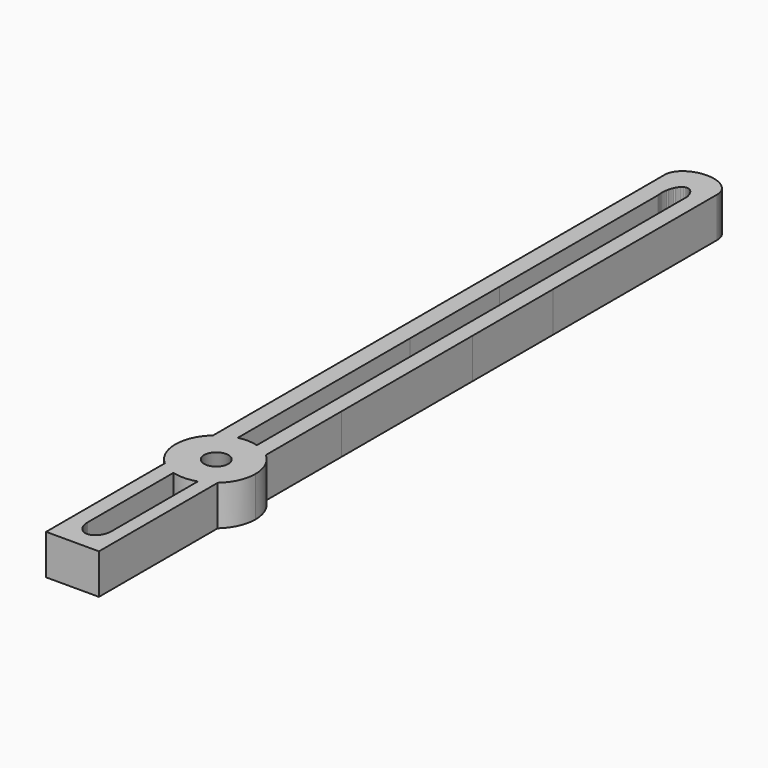
from build123d import *

# Parameters (mm, degrees)
F1_DEPTH = 3


with BuildPart() as f1:
    # F0 (on Top) → F1 (new body)
    with BuildSketch(Plane.XY):
        with BuildLine():
            Line((-1.980627, 28.310504), (-1.979445, 12.812142))
            Line((-1.979445, 12.812142), (-1.980026, 5.260689))
            Line((-1.980026, 5.260689), (-1.980225, -7.005053))
            Line((-1.980225, -7.005053), (-1.979909, -14.056294))
            ThreePointArc((-1.979909, -14.056294), (-1.363477, -13.638435), (-0.663111, -13.385288))
            Line((-0.663111, -13.385288), (-0.665843, -13.322534))
            Line((-0.665843, -13.322534), (-0.66649, 2.730131))
            Line((-0.66649, 2.730131), (-0.666085, 11.093984))
            Line((-0.666085, 11.093984), (-0.666229, 25.903609))
            Line((-0.666229, 25.903609), (-0.678468, 25.996836))
            Line((-0.678468, 25.996836), (-0.687339, 26.092324))
            Line((-0.687339, 26.092324), (-0.69274, 26.189851))
            Line((-0.69274, 26.189851), (-0.694564, 26.289197))
            Line((-0.694564, 26.289197), (-0.690575, 26.435973))
            Line((-0.690575, 26.435973), (-0.678866, 26.57851))
            Line((-0.678866, 26.57851), (-0.659828, 26.716085))
            Line((-0.659828, 26.716085), (-0.633847, 26.847977))
            Line((-0.633847, 26.847977), (-0.601312, 26.973464))
            Line((-0.601312, 26.973464), (-0.562612, 27.091825))
            Line((-0.562612, 27.091825), (-0.518134, 27.202339))
            Line((-0.518134, 27.202339), (-0.468267, 27.304283))
            Line((-0.468267, 27.304283), (-0.4134, 27.396936))
            Line((-0.4134, 27.396936), (-0.353921, 27.479576))
            Line((-0.353921, 27.479576), (-0.290218, 27.551483))
            Line((-0.290218, 27.551483), (-0.22268, 27.611933))
            Line((-0.22268, 27.611933), (-0.151694, 27.660206))
            Line((-0.151694, 27.660206), (-0.07765, 27.695581))
            Line((-0.07765, 27.695581), (-0.039602, 27.708205))
            Line((-0.039602, 27.708205), (-0.000936, 27.717334))
            Line((-0.000936, 27.717334), (0.038302, 27.722878))
            Line((0.038302, 27.722878), (0.078061, 27.724746))
            Line((0.078061, 27.724746), (0.13738, 27.720578))
            Line((0.13738, 27.720578), (0.195474, 27.708275))
            Line((0.195474, 27.708275), (0.252183, 27.688139))
            Line((0.252183, 27.688139), (0.30734, 27.660474))
            Line((0.30734, 27.660474), (0.360783, 27.625579))
            Line((0.360783, 27.625579), (0.41235, 27.583758))
            Line((0.41235, 27.583758), (0.461876, 27.535313))
            Line((0.461876, 27.535313), (0.509199, 27.480545))
            Line((0.509199, 27.480545), (0.554154, 27.419756))
            Line((0.554154, 27.419756), (0.596581, 27.35325))
            Line((0.596581, 27.35325), (0.636313, 27.281326))
            Line((0.636313, 27.281326), (0.673188, 27.204289))
            Line((0.673188, 27.204289), (0.707043, 27.122439))
            Line((0.707043, 27.122439), (0.737715, 27.03608))
            Line((0.737715, 27.03608), (0.765041, 26.945512))
            Line((0.765041, 26.945512), (0.788856, 26.851039))
            Line((0.788856, 26.851039), (0.788507, 11.093984))
            Line((0.788507, 11.093984), (0.788773, 2.740624))
            Line((0.788773, 2.740624), (0.789484, -13.260259))
            Line((0.789484, -13.260259), (0.78927, -13.289638))
            Line((0.78927, -13.289638), (0.785687, -13.416494))
            ThreePointArc((0.785687, -13.416494), (1.41792, -13.668387), (1.97711, -14.056299))
            Line((1.97711, -14.056299), (1.977443, -7.004815))
            Line((1.977443, -7.004815), (1.977243, 5.286924))
            Line((1.977243, 5.286924), (1.976621, 12.812142))
            Line((1.976621, 12.812142), (1.97763, 28.11913))
            Line((1.97763, 28.11913), (1.98036, 28.181932))
            Line((1.98036, 28.181932), (1.977778, 28.258802))
            Line((1.977778, 28.258802), (1.970115, 28.334663))
            Line((1.970115, 28.334663), (1.957495, 28.409421))
            Line((1.957495, 28.409421), (1.940044, 28.482981))
            Line((1.940044, 28.482981), (1.917886, 28.555252))
            Line((1.917886, 28.555252), (1.891146, 28.626137))
            Line((1.891146, 28.626137), (1.859947, 28.695545))
            Line((1.859947, 28.695545), (1.824416, 28.76338))
            Line((1.824416, 28.76338), (1.784676, 28.829549))
            Line((1.784676, 28.829549), (1.740854, 28.893958))
            Line((1.740854, 28.893958), (1.693072, 28.956513))
            Line((1.693072, 28.956513), (1.641456, 29.017121))
            Line((1.641456, 29.017121), (1.58613, 29.075686))
            Line((1.58613, 29.075686), (1.527219, 29.132116))
            Line((1.527219, 29.132116), (1.464849, 29.186318))
            Line((1.464849, 29.186318), (1.399143, 29.238197))
            Line((1.399143, 29.238197), (1.330226, 29.287657))
            Line((1.330226, 29.287657), (1.258223, 29.334608))
            Line((1.258223, 29.334608), (1.183258, 29.378954))
            Line((1.183258, 29.378954), (1.105457, 29.420601))
            Line((1.105457, 29.420601), (1.024943, 29.459455))
            Line((1.024943, 29.459455), (0.941843, 29.495424))
            Line((0.941843, 29.495424), (0.856279, 29.528412))
            Line((0.856279, 29.528412), (0.768378, 29.558326))
            Line((0.768378, 29.558326), (0.678263, 29.585072))
            Line((0.678263, 29.585072), (0.58606, 29.608558))
            Line((0.58606, 29.608558), (0.491891, 29.628687))
            Line((0.491891, 29.628687), (0.395885, 29.645367))
            Line((0.395885, 29.645367), (0.298164, 29.658503))
            Line((0.298164, 29.658503), (0.198853, 29.668003))
            Line((0.198853, 29.668003), (0.098076, 29.673772))
            Line((0.098076, 29.673772), (-0.004041, 29.675715))
            Line((-0.004041, 29.675715), (-0.101061, 29.673961))
            Line((-0.101061, 29.673961), (-0.196878, 29.668754))
            Line((-0.196878, 29.668754), (-0.291384, 29.660174))
            Line((-0.291384, 29.660174), (-0.384472, 29.648304))
            Line((-0.384472, 29.648304), (-0.476034, 29.633223))
            Line((-0.476034, 29.633223), (-0.565965, 29.615016))
            Line((-0.565965, 29.615016), (-0.740501, 29.569542))
            Line((-0.740501, 29.569542), (-0.907225, 29.512535))
            Line((-0.907225, 29.512535), (-1.065281, 29.444645))
            Line((-1.065281, 29.444645), (-1.213809, 29.366523))
            Line((-1.213809, 29.366523), (-1.284235, 29.323829))
            Line((-1.284235, 29.323829), (-1.351958, 29.278821))
            Line((-1.351958, 29.278821), (-1.41687, 29.231581))
            Line((-1.41687, 29.231581), (-1.478867, 29.182191))
            Line((-1.478867, 29.182191), (-1.53784, 29.130731))
            Line((-1.53784, 29.130731), (-1.593682, 29.077283))
            Line((-1.593682, 29.077283), (-1.646286, 29.02193))
            Line((-1.646286, 29.02193), (-1.695545, 28.964751))
            Line((-1.695545, 28.964751), (-1.741353, 28.905828))
            Line((-1.741353, 28.905828), (-1.783602, 28.845244))
            Line((-1.783602, 28.845244), (-1.822185, 28.783079))
            Line((-1.822185, 28.783079), (-1.856995, 28.719414))
            Line((-1.856995, 28.719414), (-1.887924, 28.654332))
            Line((-1.887924, 28.654332), (-1.914867, 28.587914))
            Line((-1.914867, 28.587914), (-1.937716, 28.52024))
            Line((-1.937716, 28.52024), (-1.956364, 28.451393))
            Line((-1.956364, 28.451393), (-1.970703, 28.381454))
            Line((-1.970703, 28.381454), (-1.980627, 28.310504))
        make_face()
        with BuildLine():
            ThreePointArc((2.998598, -16.311402), (2.73132, -15.073568), (1.97711, -14.056299))
            Line((1.97711, -14.056299), (1.977003, -16.311402))
            Line((1.977003, -16.311402), (1.976972, -18.160969))
            Line((1.976972, -18.160969), (1.976961, -18.566636))
            ThreePointArc((1.976961, -18.566636), (2.731279, -17.549326), (2.998598, -16.311402))
        make_face()
        with BuildLine():
            ThreePointArc((-0.663111, -13.385288), (-1.363477, -13.638435), (-1.979909, -14.056294))
            Line((-1.979909, -14.056294), (-1.979807, -16.311402))
            Line((-1.979807, -16.311402), (-1.979778, -18.160832))
            Line((-1.979778, -18.160832), (-1.979754, -18.566645))
            ThreePointArc((-1.979754, -18.566645), (-1.440444, -18.943731), (-0.831892, -19.194158))
            Line((-0.831892, -19.194158), (-0.831876, -19.007547))
            Line((-0.831876, -19.007547), (-0.827241, -18.887879))
            Line((-0.827241, -18.887879), (-0.813638, -18.771668))
            Line((-0.813638, -18.771668), (-0.791516, -18.659502))
            Line((-0.791516, -18.659502), (-0.761329, -18.551969))
            Line((-0.761329, -18.551969), (-0.723527, -18.449658))
            Line((-0.723527, -18.449658), (-0.67856, -18.353157))
            Line((-0.67856, -18.353157), (-0.626881, -18.263055))
            Line((-0.626881, -18.263055), (-0.568941, -18.179939))
            Line((-0.568941, -18.179939), (-0.50519, -18.104398))
            Line((-0.50519, -18.104398), (-0.43608, -18.037021))
            Line((-0.43608, -18.037021), (-0.362064, -17.978395))
            Line((-0.362064, -17.978395), (-0.283591, -17.929109))
            Line((-0.283591, -17.929109), (-0.201112, -17.889752))
            Line((-0.201112, -17.889752), (-0.115079, -17.860911))
            Line((-0.115079, -17.860911), (-0.070871, -17.850618))
            Line((-0.070871, -17.850618), (-0.025944, -17.843174))
            Line((-0.025944, -17.843174), (0.019646, -17.838655))
            Line((0.019646, -17.838655), (0.065842, -17.837132))
            Line((0.065842, -17.837132), (0.112039, -17.838655))
            Line((0.112039, -17.838655), (0.157629, -17.843174))
            Line((0.157629, -17.843174), (0.202556, -17.850618))
            Line((0.202556, -17.850618), (0.246764, -17.860911))
            Line((0.246764, -17.860911), (0.332796, -17.889752))
            Line((0.332796, -17.889752), (0.415275, -17.929109))
            Line((0.415275, -17.929109), (0.493748, -17.978395))
            Line((0.493748, -17.978395), (0.567765, -18.037021))
            Line((0.567765, -18.037021), (0.636875, -18.104398))
            Line((0.636875, -18.104398), (0.700625, -18.179939))
            Line((0.700625, -18.179939), (0.758565, -18.263055))
            Line((0.758565, -18.263055), (0.810244, -18.353157))
            Line((0.810244, -18.353157), (0.85521, -18.449658))
            Line((0.85521, -18.449658), (0.893013, -18.551969))
            Line((0.893013, -18.551969), (0.923201, -18.659502))
            Line((0.923201, -18.659502), (0.945322, -18.771668))
            Line((0.945322, -18.771668), (0.958926, -18.887879))
            Line((0.958926, -18.887879), (0.96356, -19.007547))
            Line((0.96356, -19.007547), (0.963548, -19.151978))
            ThreePointArc((0.963548, -19.151978), (1.499074, -18.909203), (1.976961, -18.566636))
            Line((1.976961, -18.566636), (1.976972, -18.160969))
            Line((1.976972, -18.160969), (1.977003, -16.311402))
            Line((1.977003, -16.311402), (1.97711, -14.056299))
            ThreePointArc((1.97711, -14.056299), (1.41792, -13.668387), (0.785687, -13.416494))
            Line((0.785687, -13.416494), (0.785158, -13.435205))
            Line((0.785158, -13.435205), (0.773837, -13.576492))
            Line((0.773837, -13.576492), (0.755668, -13.712789))
            Line((0.755668, -13.712789), (0.731018, -13.843382))
            Line((0.731018, -13.843382), (0.700252, -13.96756))
            Line((0.700252, -13.96756), (0.663735, -14.084611))
            Line((0.663735, -14.084611), (0.621833, -14.193822))
            Line((0.621833, -14.193822), (0.57491, -14.294481))
            Line((0.57491, -14.294481), (0.523332, -14.385878))
            Line((0.523332, -14.385878), (0.467465, -14.467297))
            Line((0.467465, -14.467297), (0.407673, -14.538028))
            Line((0.407673, -14.538028), (0.344322, -14.597359))
            Line((0.344322, -14.597359), (0.277777, -14.644577))
            Line((0.277777, -14.644577), (0.208403, -14.678971))
            Line((0.208403, -14.678971), (0.136565, -14.699827))
            Line((0.136565, -14.699827), (0.062629, -14.706435))
            Line((0.062629, -14.706435), (-0.010263, -14.699339))
            Line((-0.010263, -14.699339), (-0.081103, -14.678502))
            Line((-0.081103, -14.678502), (-0.149551, -14.6446))
            Line((-0.149551, -14.6446), (-0.215262, -14.598307))
            Line((-0.215262, -14.598307), (-0.277895, -14.540302))
            Line((-0.277895, -14.540302), (-0.337108, -14.47126))
            Line((-0.337108, -14.47126), (-0.392557, -14.391857))
            Line((-0.392557, -14.391857), (-0.443904, -14.30277))
            Line((-0.443904, -14.30277), (-0.490802, -14.204672))
            Line((-0.490802, -14.204672), (-0.532912, -14.098243))
            Line((-0.532912, -14.098243), (-0.569891, -13.984157))
            Line((-0.569891, -13.984157), (-0.601396, -13.863089))
            Line((-0.601396, -13.863089), (-0.627086, -13.735717))
            Line((-0.627086, -13.735717), (-0.646619, -13.602717))
            Line((-0.646619, -13.602717), (-0.659652, -13.464763))
            Line((-0.659652, -13.464763), (-0.663111, -13.385288))
        make_face()
        Polygon((0.967563, -16.254669), (0.969343, -16.311402), (0.96695, -16.377163), (0.961052, -16.433616), (0.951626, -16.489589), (0.938711, -16.54486), (0.922356, -16.599213), (0.902625, -16.652433), (0.879596, -16.704313), (0.853362, -16.754646), (0.824022, -16.803236), (0.791694, -16.849891), (0.756506, -16.894426), (0.718593, -16.936669), (0.678108, -16.976453), (0.635209, -17.013619), (0.590063, -17.048023), (0.542851, -17.079529), (0.493755, -17.108014), (0.442969, -17.133364), (0.390695, -17.155481), (0.337138, -17.174277), (0.282507, -17.18968), (0.227018, -17.201626), (0.170889, -17.21007), (0.114342, -17.21498), (0.057598, -17.216334), (0.00088, -17.214129), (-0.055587, -17.208372), (-0.111583, -17.199087), (-0.166887, -17.186309), (-0.221281, -17.170089), (-0.27455, -17.150491), (-0.326486, -17.127593), (-0.376885, -17.101483), (-0.425549, -17.072266), (-0.472283, -17.040055), (-0.516908, -17.004978), (-0.559245, -16.967172), (-0.599129, -16.926786), (-0.636403, -16.88398), (-0.67092, -16.838921), (-0.702544, -16.791786), (-0.731151, -16.742762), (-0.756628, -16.692041), (-0.778876, -16.639822), (-0.797807, -16.586312), (-0.813345, -16.531719), (-0.82543, -16.476261), (-0.834015, -16.420153), (-0.839065, -16.363618), (-0.840562, -16.306877), (-0.838498, -16.250154), (-0.832883, -16.193672), (-0.823737, -16.137653), (-0.811098, -16.082318), (-0.795014, -16.027884), (-0.77555, -15.974566), (-0.752781, -15.922572), (-0.726798, -15.872108), (-0.697702, -15.823372), (-0.665608, -15.776556), (-0.630642, -15.731845), (-0.592942, -15.689413), (-0.552656, -15.649429), (-0.509943, -15.612048), (-0.46497, -15.577418), (-0.417915, -15.545676), (-0.368962, -15.516946), (-0.318306, -15.491342), (-0.266142, -15.468965), (-0.212679, -15.449901), (-0.158126, -15.434226), (-0.102698, -15.422002), (-0.046612, -15.413277), (0.009911, -15.408085), (0.066647, -15.406447), (0.123375, -15.408369), (0.179871, -15.413843), (0.235912, -15.422848), (0.291279, -15.435349), (0.345753, -15.451296), (0.39912, -15.470628), (0.45117, -15.493266), (0.501699, -15.519124), (0.550507, -15.548097), (0.597403, -15.580074), (0.642202, -15.614928), (0.684728, -15.652522), (0.724814, -15.692707), (0.762301, -15.735327), (0.797042, -15.780213), (0.828902, -15.827189), (0.857754, -15.87607), (0.883485, -15.926663), (0.905993, -15.978769), (0.925191, -16.032185), (0.941002, -16.086699), (0.953364, -16.142096), (0.96223, -16.19816), align=None, mode=Mode.SUBTRACT)
        with BuildLine():
            Line((-1.979807, -16.311402), (-1.979909, -14.056294))
            ThreePointArc((-1.979909, -14.056294), (-3.001402, -16.311504), (-1.979754, -18.566645))
            Line((-1.979754, -18.566645), (-1.979778, -18.160832))
            Line((-1.979778, -18.160832), (-1.979807, -16.311402))
        make_face()
        with BuildLine():
            ThreePointArc((-0.831892, -19.194158), (-1.440444, -18.943731), (-1.979754, -18.566645))
            Line((-1.979754, -18.566645), (-1.979114, -29.675715))
            Line((-1.979114, -29.675715), (1.976661, -29.675715))
            Line((1.976661, -29.675715), (1.976961, -18.566636))
            ThreePointArc((1.976961, -18.566636), (1.499074, -18.909203), (0.963548, -19.151978))
            Line((0.963548, -19.151978), (0.962868, -27.219652))
            Line((0.962868, -27.219652), (0.958234, -27.33932))
            Line((0.958234, -27.33932), (0.944629, -27.455532))
            Line((0.944629, -27.455532), (0.922508, -27.567698))
            Line((0.922508, -27.567698), (0.892321, -27.67523))
            Line((0.892321, -27.67523), (0.854518, -27.777542))
            Line((0.854518, -27.777542), (0.809552, -27.874042))
            Line((0.809552, -27.874042), (0.757873, -27.964145))
            Line((0.757873, -27.964145), (0.699932, -28.047261))
            Line((0.699932, -28.047261), (0.636182, -28.122802))
            Line((0.636182, -28.122802), (0.567073, -28.190179))
            Line((0.567073, -28.190179), (0.493055, -28.248805))
            Line((0.493055, -28.248805), (0.414582, -28.298091))
            Line((0.414582, -28.298091), (0.332104, -28.337448))
            Line((0.332104, -28.337448), (0.246071, -28.366289))
            Line((0.246071, -28.366289), (0.201863, -28.376582))
            Line((0.201863, -28.376582), (0.156936, -28.384025))
            Line((0.156936, -28.384025), (0.111346, -28.388545))
            Line((0.111346, -28.388545), (0.06515, -28.390068))
            Line((0.06515, -28.390068), (0.018953, -28.388545))
            Line((0.018953, -28.388545), (-0.026637, -28.384025))
            Line((-0.026637, -28.384025), (-0.071564, -28.376582))
            Line((-0.071564, -28.376582), (-0.115771, -28.366289))
            Line((-0.115771, -28.366289), (-0.201804, -28.337448))
            Line((-0.201804, -28.337448), (-0.284283, -28.298091))
            Line((-0.284283, -28.298091), (-0.362756, -28.248805))
            Line((-0.362756, -28.248805), (-0.436773, -28.190179))
            Line((-0.436773, -28.190179), (-0.505883, -28.122802))
            Line((-0.505883, -28.122802), (-0.569633, -28.047261))
            Line((-0.569633, -28.047261), (-0.627573, -27.964145))
            Line((-0.627573, -27.964145), (-0.679253, -27.874042))
            Line((-0.679253, -27.874042), (-0.724219, -27.777542))
            Line((-0.724219, -27.777542), (-0.762021, -27.67523))
            Line((-0.762021, -27.67523), (-0.792209, -27.567698))
            Line((-0.792209, -27.567698), (-0.81433, -27.455532))
            Line((-0.81433, -27.455532), (-0.827934, -27.33932))
            Line((-0.827934, -27.33932), (-0.832569, -27.219652))
            Line((-0.832569, -27.219652), (-0.831892, -19.194158))
        make_face()
        with BuildLine():
            ThreePointArc((0.785687, -13.416494), (0.0632, -13.312097), (-0.663111, -13.385288))
            Line((-0.663111, -13.385288), (-0.659652, -13.464763))
            Line((-0.659652, -13.464763), (-0.646619, -13.602717))
            Line((-0.646619, -13.602717), (-0.627086, -13.735717))
            Line((-0.627086, -13.735717), (-0.601396, -13.863089))
            Line((-0.601396, -13.863089), (-0.569891, -13.984157))
            Line((-0.569891, -13.984157), (-0.532912, -14.098243))
            Line((-0.532912, -14.098243), (-0.490802, -14.204672))
            Line((-0.490802, -14.204672), (-0.443904, -14.30277))
            Line((-0.443904, -14.30277), (-0.392557, -14.391857))
            Line((-0.392557, -14.391857), (-0.337108, -14.47126))
            Line((-0.337108, -14.47126), (-0.277895, -14.540302))
            Line((-0.277895, -14.540302), (-0.215262, -14.598307))
            Line((-0.215262, -14.598307), (-0.149551, -14.6446))
            Line((-0.149551, -14.6446), (-0.081103, -14.678502))
            Line((-0.081103, -14.678502), (-0.010263, -14.699339))
            Line((-0.010263, -14.699339), (0.062629, -14.706435))
            Line((0.062629, -14.706435), (0.136565, -14.699827))
            Line((0.136565, -14.699827), (0.208403, -14.678971))
            Line((0.208403, -14.678971), (0.277777, -14.644577))
            Line((0.277777, -14.644577), (0.344322, -14.597359))
            Line((0.344322, -14.597359), (0.407673, -14.538028))
            Line((0.407673, -14.538028), (0.467465, -14.467297))
            Line((0.467465, -14.467297), (0.523332, -14.385878))
            Line((0.523332, -14.385878), (0.57491, -14.294481))
            Line((0.57491, -14.294481), (0.621833, -14.193822))
            Line((0.621833, -14.193822), (0.663735, -14.084611))
            Line((0.663735, -14.084611), (0.700252, -13.96756))
            Line((0.700252, -13.96756), (0.731018, -13.843382))
            Line((0.731018, -13.843382), (0.755668, -13.712789))
            Line((0.755668, -13.712789), (0.773837, -13.576492))
            Line((0.773837, -13.576492), (0.785158, -13.435205))
            Line((0.785158, -13.435205), (0.785687, -13.416494))
        make_face()
        with BuildLine():
            Line((-0.831876, -19.007547), (-0.831892, -19.194158))
            ThreePointArc((-0.831892, -19.194158), (0.069058, -19.310574), (0.963548, -19.151978))
            Line((0.963548, -19.151978), (0.96356, -19.007547))
            Line((0.96356, -19.007547), (0.958926, -18.887879))
            Line((0.958926, -18.887879), (0.945322, -18.771668))
            Line((0.945322, -18.771668), (0.923201, -18.659502))
            Line((0.923201, -18.659502), (0.893013, -18.551969))
            Line((0.893013, -18.551969), (0.85521, -18.449658))
            Line((0.85521, -18.449658), (0.810244, -18.353157))
            Line((0.810244, -18.353157), (0.758565, -18.263055))
            Line((0.758565, -18.263055), (0.700625, -18.179939))
            Line((0.700625, -18.179939), (0.636875, -18.104398))
            Line((0.636875, -18.104398), (0.567765, -18.037021))
            Line((0.567765, -18.037021), (0.493748, -17.978395))
            Line((0.493748, -17.978395), (0.415275, -17.929109))
            Line((0.415275, -17.929109), (0.332796, -17.889752))
            Line((0.332796, -17.889752), (0.246764, -17.860911))
            Line((0.246764, -17.860911), (0.202556, -17.850618))
            Line((0.202556, -17.850618), (0.157629, -17.843174))
            Line((0.157629, -17.843174), (0.112039, -17.838655))
            Line((0.112039, -17.838655), (0.065842, -17.837132))
            Line((0.065842, -17.837132), (0.019646, -17.838655))
            Line((0.019646, -17.838655), (-0.025944, -17.843174))
            Line((-0.025944, -17.843174), (-0.070871, -17.850618))
            Line((-0.070871, -17.850618), (-0.115079, -17.860911))
            Line((-0.115079, -17.860911), (-0.201112, -17.889752))
            Line((-0.201112, -17.889752), (-0.283591, -17.929109))
            Line((-0.283591, -17.929109), (-0.362064, -17.978395))
            Line((-0.362064, -17.978395), (-0.43608, -18.037021))
            Line((-0.43608, -18.037021), (-0.50519, -18.104398))
            Line((-0.50519, -18.104398), (-0.568941, -18.179939))
            Line((-0.568941, -18.179939), (-0.626881, -18.263055))
            Line((-0.626881, -18.263055), (-0.67856, -18.353157))
            Line((-0.67856, -18.353157), (-0.723527, -18.449658))
            Line((-0.723527, -18.449658), (-0.761329, -18.551969))
            Line((-0.761329, -18.551969), (-0.791516, -18.659502))
            Line((-0.791516, -18.659502), (-0.813638, -18.771668))
            Line((-0.813638, -18.771668), (-0.827241, -18.887879))
            Line((-0.827241, -18.887879), (-0.831876, -19.007547))
        make_face()
    extrude(amount=F1_DEPTH)


solid = f1.part
